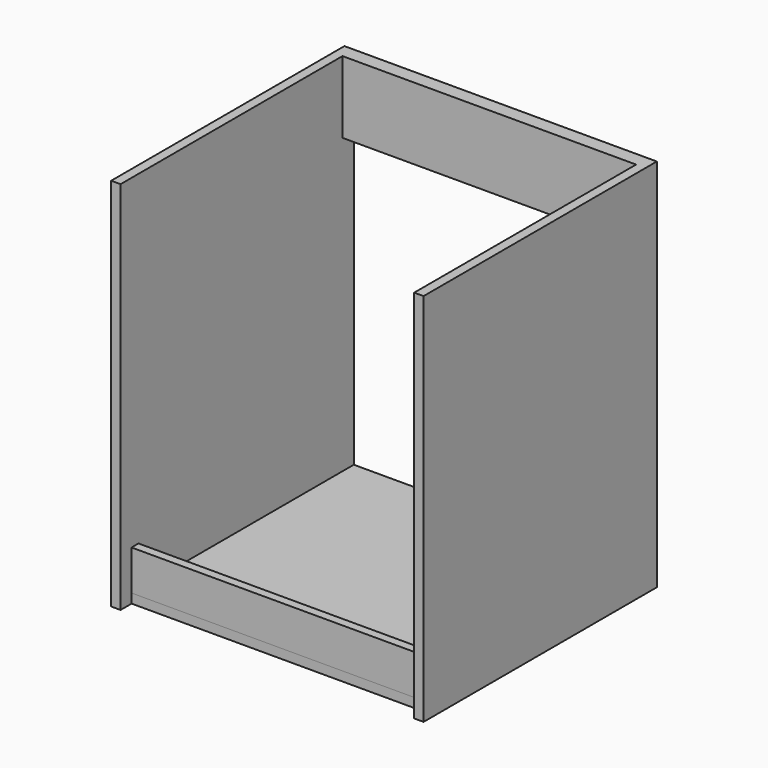
from build123d import *

# Parameters (mm, degrees)
F0_W      = 52.5068640709
F0_H      = 40.332518518
F1_DEPTH  = 560
F2_DEPTH  = 600
F3_DEPTH  = 720
F4_T      = -18
F5_W      = 27.2077894211
F5_H      = 138.2559251785
F6_DEPTH  = 562
F7_DEPTH  = 2
F8_W      = 16.7428851128
F8_H      = 76.9920415878
F9_DEPTH  = 564
F11_DEPTH = 10
F13_DEPTH = 10
F14_DEPTH = 16.5


with BuildPart() as f1:
    # F0 (on Front) → F1 (new body)
    with BuildSketch(Plane.XZ):
        with Locations((-26.2534320354, 20.166259259)):
            Rectangle(F0_W, F0_H)
    extrude(amount=-F1_DEPTH)

    # F2 (add): a face of the model
    f2_faces = [f1.faces().sort_by_distance(p)[0] for p in [
        (0, 280, 20.166259259),
    ]]
    extrude(f2_faces, amount=-F2_DEPTH)

    # F3 (add): a face of the model
    f3_faces = [f1.faces().sort_by_distance(p)[0] for p in [
        (-300, 280, 0),
    ]]
    extrude(f3_faces, amount=-F3_DEPTH)

    # F4
    f4_openings = [f1.faces().sort_by_distance(p)[0] for p in [
        (-300, 560, 360),
        (-300, 280, 720),
        (-300, 0, 360),
    ]]
    offset(amount=F4_T, openings=f4_openings)

    # F5 (on face) → F6 (join)
    with BuildSketch(Plane(origin=(-18, 0, 0), x_dir=(0, -1, 0), z_dir=(-1, 0, 0))):
        with Locations((-546.3961052895, 650.8720374107)):
            Rectangle(F5_W, F5_H)
    extrude(amount=F6_DEPTH)

    # F7 (add): a face of the model
    f7_faces = [f1.faces().sort_by_distance(p)[0] for p in [
        (-580, 546.3961052895, 650.8720374107),
    ]]
    extrude(f7_faces, amount=F7_DEPTH)

    # F8 (on face) → F9 (join)
    with BuildSketch(Plane(origin=(-18, 0, 0), x_dir=(0, -1, 0), z_dir=(-1, 0, 0))):
        with Locations((-34.7199738026, 56.4960207939)):
            Rectangle(F8_W, F8_H)
    extrude(amount=F9_DEPTH)

    # F10 (on face) → F11 (cut)
    with BuildSketch(Plane.XZ):
        Polygon((-18, 0), (-18, 18), (-582, 18), (-582, 720), (-600, 720), (-600, 0), align=None)
    extrude(amount=-F11_DEPTH, mode=Mode.SUBTRACT)

    # F12 (on face) → F13 (join)
    with BuildSketch(Plane.XZ.offset(-10)):
        Polygon((-582, 0), (-582, 18), (-582, 720), (-600, 720), (-600, 0), align=None)
    extrude(amount=F13_DEPTH)

    # F14 (cut): a face of the model
    f14_faces = [f1.faces().sort_by_distance(p)[0] for p in [
        (-300, 10, 9),
    ]]
    extrude(f14_faces, amount=-F14_DEPTH, mode=Mode.SUBTRACT)


solid = f1.part
